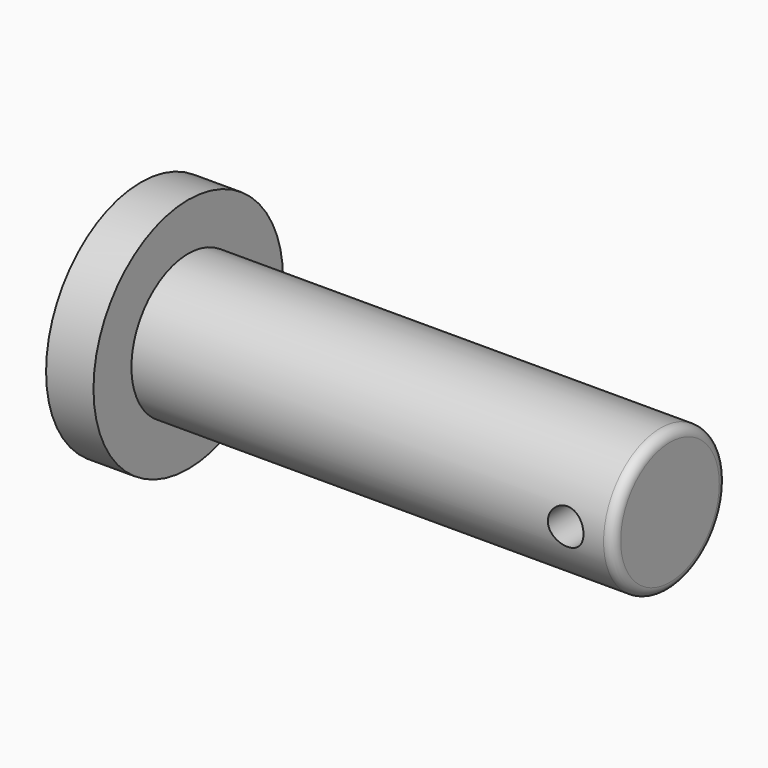
from build123d import *

# Parameters (mm, degrees)
F0_R     = 9.525
F1_DEPTH = 64.516
F3_R     = 15.875
F4_DEPTH = 6.35
F2_R     = 2.3876
F5_DEPTH = 15.876
F6_R     = 1.27


with BuildPart() as f1:
    # F0 (on Right) → F1 (new body)
    with BuildSketch(Plane.YZ):
        Circle(F0_R)
    extrude(amount=F1_DEPTH)

    # F3 (on face) → F4 (join)
    with BuildSketch(Plane(origin=(0, 0, 0), x_dir=(0, -1, 0), z_dir=(-1, 0, 0))):
        Circle(F3_R)
    extrude(amount=F4_DEPTH)

    # F2 (on Front) → F5 (cut, through all)
    with BuildSketch(Plane.XZ):
        with Locations((58.166, 0)):
            Circle(F2_R)
    extrude(amount=F5_DEPTH, mode=Mode.SUBTRACT)

    # F6
    f6_edges = [f1.edges().sort_by_distance(p)[0] for p in [
        (64.516, -9.525, 0),
    ]]
    fillet(f6_edges, radius=F6_R)


solid = f1.part
